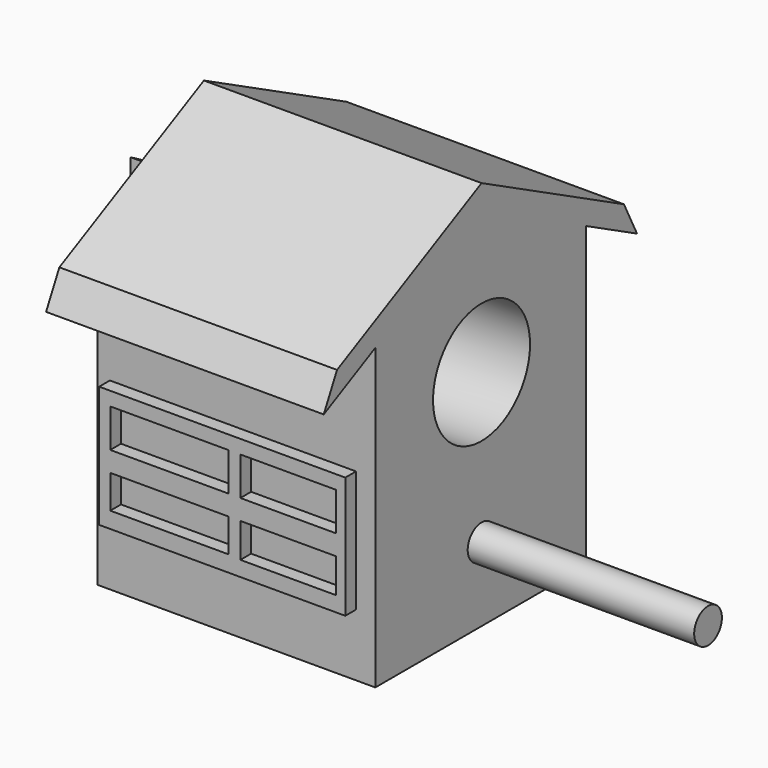
from build123d import *

# Parameters (mm, degrees)
F1_DEPTH  = 33.02
F2_R      = 18.3561977424
F3_DEPTH  = 38.1
F4_R      = 5.2507259391
F5_DEPTH  = 68.58
F7_DEPTH  = 51.054
F8_R      = 4.7656912357
F8_R_2    = 10.9843884843
F8_R_3    = 9.697479166
F8_R_4    = 9.2479292762
F8_R_5    = 8.5292895708
F8_R_6    = 7.1733155085
F8_R_7    = 8.6736896771
F8_R_8    = 5.4464276584
F8_R_9    = 8.102554369
F8_R_10   = 5.3943968671
F8_R_11   = 6.0751011196
F8_R_12   = 5.9571165591
F8_R_13   = 3.4735651016
F9_DEPTH  = 19.05
F11_W     = 74.5131336153
F11_H     = 36.8404686451
F11_W_2   = 35.7296550646
F11_H_2   = 10.0775975734
F11_W_3   = 29.0112560615
F11_H_3   = 10.3829782456
F11_H_4   = 11.6045051254
F12_DEPTH = 4.064
F14_DEPTH = 5.842


with BuildPart() as f1:
    # F0 (on Right) → F1 (new body)
    with BuildSketch(Plane.YZ):
        Polygon((0, 55.1033206284), (-40.2105264366, 34.8491296172), (-40.2105264366, -55.6990355253), (39.6148264408, -55.6990355253), (39.6148264408, 34.8491296172), align=None)
        Polygon((-59.7306484823, 25.0167718862), (-40.2105264366, 34.8491296172), (0, 55.1033206284), (39.6148264408, 34.8491296172), (58.8457670794, 25.0167718862), (53.8931720944, 34.8491296172), (0, 62.4035252784), (-54.703579845, 34.8491296172), align=None)
    extrude(amount=F1_DEPTH)

    # F2 (on face) → F3 (cut)
    with BuildSketch(Plane.YZ.offset(33.02)):
        with Locations((0, 11.9900638238)):
            Circle(F2_R)
    extrude(amount=-F3_DEPTH, mode=Mode.SUBTRACT)

    # F4 (on face) → F5 (join)
    with BuildSketch(Plane.YZ.offset(33.02)):
        with Locations((0, -33.2840159535)):
            Circle(F4_R)
    extrude(amount=F5_DEPTH)

    # F6 (on face) → F7 (join)
    with BuildSketch(Plane(origin=(0, 0, 0), x_dir=(0, -1, 0), z_dir=(-1, 0, 0))):
        Polygon((-53.8931720944, 34.8491296172), (-58.8457670794, 25.0167718862), (-39.6148264408, 34.8491296172), (-39.6148264408, -55.6990355253), (40.2105264366, -55.6990355253), (40.2105264366, 34.8491296172), (59.7306484823, 25.0167718862), (54.703579845, 34.8491296172), (0, 62.4035252784), align=None)
    extrude(amount=F7_DEPTH)

    # F8 (on face) → F9 (cut)
    with BuildSketch(Plane(origin=(0, 39.6148264408, 0), x_dir=(-1, 0, 0), z_dir=(0, 1, 0))):
        with Locations((-19.2792955786, -27.9984436929)):
            Circle(F8_R)
        with Locations((7.5277197175, -25.0198859721)):
            Circle(F8_R_2)
        with Locations((18.2505380362, 0)):
            Circle(F8_R_3)
        with Locations((-18.0878732353, 8.9356740937)):
            Circle(F8_R_4)
        with Locations((-11.5350466222, -11.9142318144)):
            Circle(F8_R_5)
        with Locations((36.7175936699, 15.4885025695)):
            Circle(F8_R_6)
        with Locations((33.7390340865, -20.8499059081)):
            Circle(F8_R_7)
        with Locations((0, 14.2970783636)):
            Circle(F8_R_8)
        with Locations((27.1862093359, -39.3169634044)):
            Circle(F8_R_9)
        with Locations((-15.1093155146, -45.2740825713)):
            Circle(F8_R_10)
        with Locations((6.9320080802, -45.8697937429)):
            Circle(F8_R_11)
        with Locations((42.0789942145, 0)):
            Circle(F8_R_12)
        with Locations((43.2704202831, -37.5298298895)):
            Circle(F8_R_13)
    extrude(amount=-F9_DEPTH, mode=Mode.SUBTRACT)

    # F11 (on face) → F12 (join)
    with BuildSketch(Plane.XZ.offset(40.2105264366)):
        with Locations((-10.0858341902, -18.4202343225)):
            Rectangle(F11_W, F11_H)
        with Locations((-26.1183748953, -26.9155642018)):
            Rectangle(F11_W_2, F11_H_2, mode=Mode.SUBTRACT)
        with Locations((9.9166636355, -27.0682545379)):
            Rectangle(F11_W_3, F11_H_3, mode=Mode.SUBTRACT)
        with Locations((-26.1183748953, -9.9668807816)):
            Rectangle(F11_W_2, F11_H_4, mode=Mode.SUBTRACT)
        with Locations((9.9166636355, -9.9668807816)):
            Rectangle(F11_W_3, F11_H_4, mode=Mode.SUBTRACT)
    extrude(amount=F12_DEPTH)

    # F13 (on face) → F14 (join)
    with BuildSketch(Plane(origin=(-51.054, 0, 0), x_dir=(0, -1, 0), z_dir=(-1, 0, 0))):
        Polygon((3.0381854158, 2.3930334493), (3.0381854158, 23.5505028621), (-15.2847205754, 12.9717681557), align=None)
        Polygon((-8.2609392703, 25.3185906107), (-8.2609392703, 50.7075435822), (-30.248417519, 38.0130670965), align=None)
        Polygon((32.9538357962, -30.5881882396), (1.2176486146, -9.4307204399), (-1.2371623889, -47.4937986583), align=None)
        Polygon((32.310971557, 4.7542667825), (23.8479883086, 24.8538487713), (10.672731325, 7.474899292), align=None)
        Polygon((-20.1708246022, -26.5583209633), (-20.1708246022, -8.5744783342), (-35.7452891767, -17.5663996488), align=None)
        Polygon((20.4449407756, 28.2686487088), (20.4449407756, 48.3682468286), (3.038178198, 38.3184477687), align=None)
        Polygon((24.4587499026, -20.5924118991), (32.9217363772, -0.4928299103), (11.2834945321, -3.2134596258), align=None)
    extrude(amount=F14_DEPTH)


solid = f1.part
